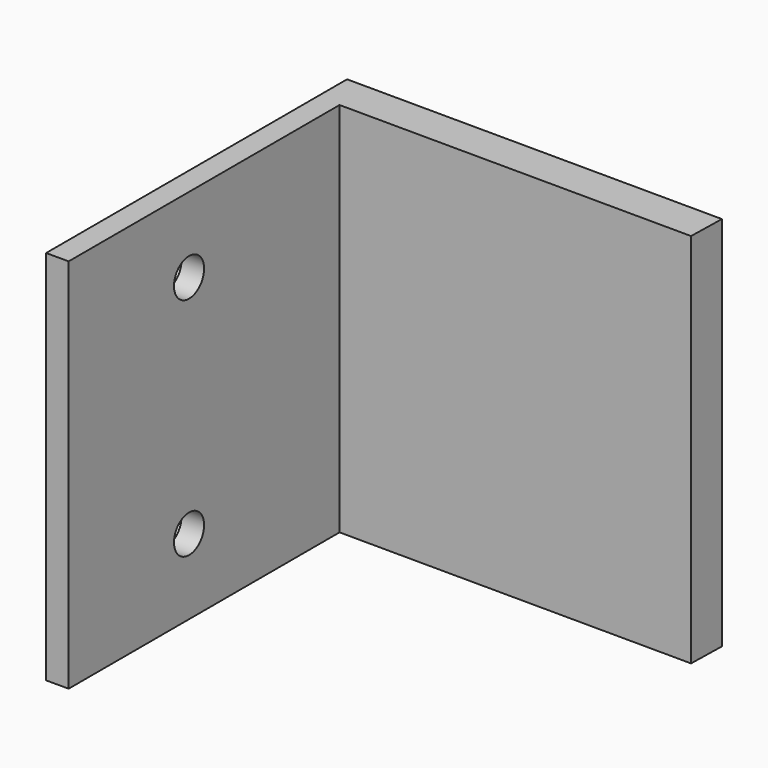
from build123d import *

# Parameters (mm, degrees)
F1_DEPTH = 50
F2_R     = 2.5
F3_DEPTH = 93


with BuildPart() as f1:
    # F0 (on Top) → F1 (new body)
    with BuildSketch(Plane.XY):
        Polygon((-4.405333, 7.717764), (-54.404821, 7.944006), (-54.404821, -42.055994), (-51.404821, -42.055994), (-51.404821, 2.944006), (-4.519233, 2.731854), align=None)
    extrude(amount=F1_DEPTH)

    # F2 (on Right) → F3 (cut)
    with BuildSketch(Plane.YZ):
        with Locations((-22.055994, 40)):
            Circle(F2_R)
        with Locations((-22.055994, 10)):
            Circle(F2_R)
    extrude(amount=-F3_DEPTH, mode=Mode.SUBTRACT)


solid = f1.part
